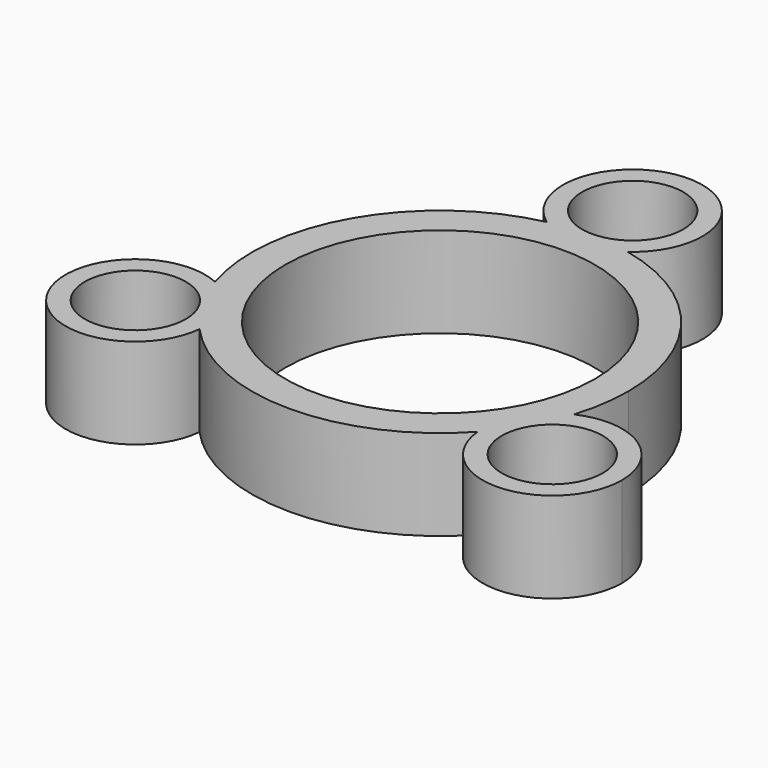
from build123d import *

# Parameters (mm, degrees)
F0_R     = 3.625
F0_R_2   = 11.1
F1_DEPTH = 6.5


with BuildPart() as f1:
    # F0 (on Top) → F1 (new body)
    with BuildSketch(Plane.XY):
        with BuildLine():
            ThreePointArc((-2.8955630067, 13.1858149113), (0, 13.5), (2.8955630067, 13.1858149113))
            ThreePointArc((2.8955630067, 13.1858149113), (4.4428490315, 14.9683455961), (5, 17.2620527446))
            ThreePointArc((5, 17.2620527446), (-2.2937071485, 21.7049017761), (-2.8955630067, 13.1858149113))
        make_face()
        with Locations((0, 17.2620527446)):
            Circle(F0_R, mode=Mode.SUBTRACT)
        with BuildLine():
            ThreePointArc((19.9493761983, -8.6310263723), (17.6501427505, -4.4231931971), (12.8670321861, -4.0852763336))
            ThreePointArc((12.8670321861, -4.0852763336), (11.6913429511, -6.75), (9.9714691794, -9.1005385777))
            ThreePointArc((9.9714691794, -9.1005385777), (15.1843920546, -13.625500073), (19.9493761983, -8.6310263723))
        make_face()
        with Locations((14.9493761983, -8.6310263723)):
            Circle(F0_R, mode=Mode.SUBTRACT)
        with BuildLine():
            ThreePointArc((12.8670321861, -4.0852763336), (13.3408195871, -2.0670105814), (13.5, 0))
            ThreePointArc((13.5, 0), (10.519983379, 8.460493467), (2.8955630067, 13.1858149113))
            ThreePointArc((2.8955630067, 13.1858149113), (0, 12.2620527446), (-2.8955630067, 13.1858149113))
            ThreePointArc((-2.8955630067, 13.1858149113), (-11.6913429511, 6.75), (-12.8670321861, -4.0852763336))
            ThreePointArc((-12.8670321861, -4.0852763336), (-10.7415430231, -5.9302598201), (-9.9493761983, -8.6310263723))
            ThreePointArc((-9.9493761983, -8.6310263723), (-9.9549024976, -8.8660422286), (-9.9714691794, -9.1005385777))
            ThreePointArc((-9.9714691794, -9.1005385777), (0, -13.5), (9.9714691794, -9.1005385777))
            ThreePointArc((9.9714691794, -9.1005385777), (10.6192491794, -6.1310263723), (12.8670321861, -4.0852763336))
        make_face()
        Circle(F0_R_2, mode=Mode.SUBTRACT)
        with BuildLine():
            ThreePointArc((-9.9714691794, -9.1005385777), (-11.6913429511, -6.75), (-12.8670321861, -4.0852763336))
            ThreePointArc((-12.8670321861, -4.0852763336), (-19.2795032172, -11.1310263723), (-9.9714691794, -9.1005385777))
        make_face()
        with Locations((-14.9493761983, -8.6310263723)):
            Circle(F0_R, mode=Mode.SUBTRACT)
        with BuildLine():
            ThreePointArc((9.9714691794, -9.1005385777), (11.6913429511, -6.75), (12.8670321861, -4.0852763336))
            ThreePointArc((12.8670321861, -4.0852763336), (10.6192491794, -6.1310263723), (9.9714691794, -9.1005385777))
        make_face()
        with BuildLine():
            ThreePointArc((-2.8955630067, 13.1858149113), (0, 12.2620527446), (2.8955630067, 13.1858149113))
            ThreePointArc((2.8955630067, 13.1858149113), (0, 13.5), (-2.8955630067, 13.1858149113))
        make_face()
        with BuildLine():
            ThreePointArc((-9.9493761983, -8.6310263723), (-10.7415430231, -5.9302598201), (-12.8670321861, -4.0852763336))
            ThreePointArc((-12.8670321861, -4.0852763336), (-11.6913429511, -6.75), (-9.9714691794, -9.1005385777))
            ThreePointArc((-9.9714691794, -9.1005385777), (-9.9549024976, -8.8660422286), (-9.9493761983, -8.6310263723))
        make_face()
    extrude(amount=F1_DEPTH)


solid = f1.part
